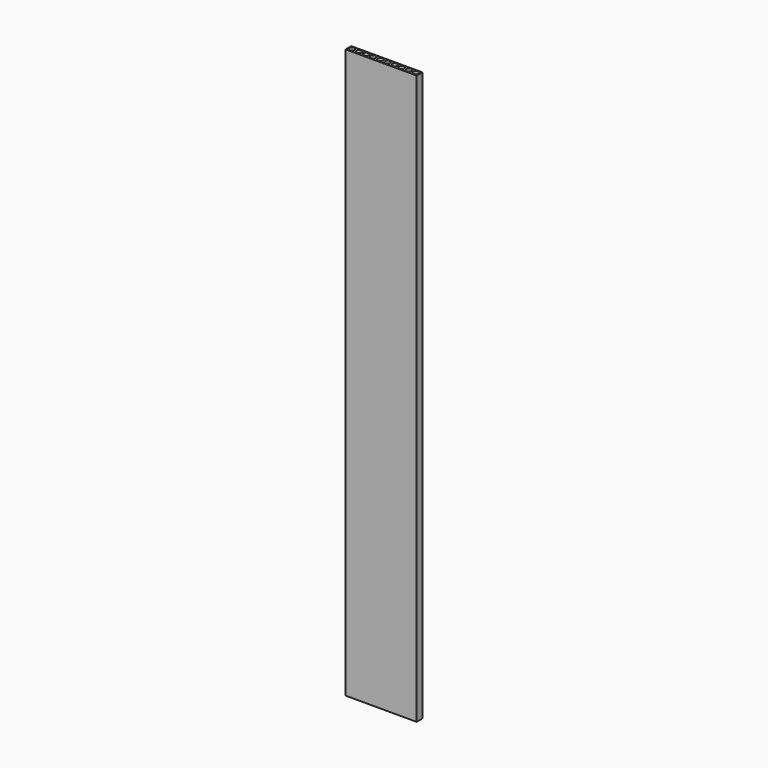
from build123d import *

# Parameters (mm, degrees)
F0_W     = 20
F0_H     = 2
F0_R     = 0.75
F1_DEPTH = 160


with BuildPart() as f1:
    # F0 (on Top) → F1 (new body)
    with BuildSketch(Plane.XY):
        with Locations((-10, 1)):
            Rectangle(F0_W, F0_H)
        with Locations((-19, 1)):
            Circle(F0_R, mode=Mode.SUBTRACT)
        with Locations((-17, 1)):
            Circle(F0_R, mode=Mode.SUBTRACT)
        with Locations((-15, 1)):
            Circle(F0_R, mode=Mode.SUBTRACT)
        with Locations((-13, 1)):
            Circle(F0_R, mode=Mode.SUBTRACT)
        with Locations((-11, 1)):
            Circle(F0_R, mode=Mode.SUBTRACT)
        with Locations((-9, 1)):
            Circle(F0_R, mode=Mode.SUBTRACT)
        with Locations((-7, 1)):
            Circle(F0_R, mode=Mode.SUBTRACT)
        with Locations((-5, 1)):
            Circle(F0_R, mode=Mode.SUBTRACT)
        with Locations((-3, 1)):
            Circle(F0_R, mode=Mode.SUBTRACT)
        with Locations((-1, 1)):
            Circle(F0_R, mode=Mode.SUBTRACT)
    extrude(amount=F1_DEPTH)


solid = f1.part
